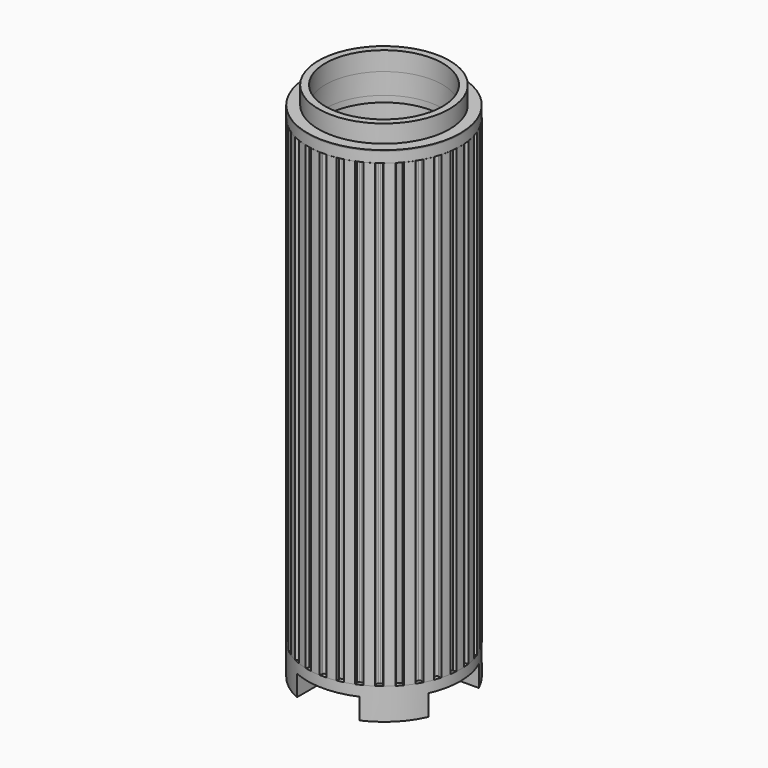
from build123d import *

# Parameters (mm, degrees)
CYLINDER001_R          = 36.5
CYLINDER001_DEPTH      = 400
CYLINDER002_R          = 100
CYLINDER002_DEPTH      = 400
CYLINDER_R             = 32
CYLINDER_DEPTH         = 240
PAD_DEPTH              = 220
BOX002_W               = 100
BOX002_H               = 30
BOX002_DEPTH           = 10
BOX003_W               = 100
BOX003_H               = 30
BOX003_DEPTH           = 10
BOX003_PLACEMENT_ANGLE = 90
CYLINDER006_R          = 19
CYLINDER006_DEPTH      = 58
CYLINDER005_R          = 13.5
CYLINDER005_DEPTH      = 90
CYLINDER007_R          = 22
CYLINDER007_DEPTH      = 60
CYLINDER003_R          = 36.5
CYLINDER003_DEPTH      = 15
CYLINDER004_R          = 31.3
CYLINDER004_DEPTH      = 22.5
CHAMFER_SIZE           = 3
CYLINDER010_R          = 28
CYLINDER010_DEPTH      = 55
CYLINDER008_R          = 36.5
CYLINDER008_DEPTH      = 5
CYLINDER009_R          = 31.3
CYLINDER009_DEPTH      = 22
CYLINDER013_R          = 28
CYLINDER013_DEPTH      = 55
CYLINDER011_R          = 36.5
CYLINDER011_DEPTH      = 5
CYLINDER012_R          = 31.3
CYLINDER012_DEPTH      = 10


with BuildPart() as cylinder001:
    # Cylinder001 → Cylinder001 (new body)
    with BuildSketch(Plane.XY):
        Circle(CYLINDER001_R)
    extrude(amount=CYLINDER001_DEPTH)


with BuildPart() as cut001:
    # Cylinder002 → Cylinder002 (new body)
    with BuildSketch(Plane.XY):
        Circle(CYLINDER002_R)
    extrude(amount=CYLINDER002_DEPTH)

    # Cut001: cut Cylinder001
    add(cylinder001.part, mode=Mode.SUBTRACT)


with BuildPart() as cylinder:
    # Cylinder → Cylinder (new body)
    with BuildSketch(Plane.XY.offset(-10)):
        Circle(CYLINDER_R)
    extrude(amount=CYLINDER_DEPTH)


with BuildPart() as shade:
    # InvoluteGear → Pad (new body)
    with BuildSketch(Plane.XY):
        with BuildLine():
            Line((34.920851, -2.352474), (35.210847, -2.370096))
            add(Edge.make_bspline(
                [(35.210847, -2.370096), (35.34891, -2.371906), (35.765082, -2.362435), (36.457725, -2.219265)],
                knots=[0, 0, 0, 0, 1, 1, 1, 1], degree=3))
            add(Edge.make_bspline(
                [(36.457725, -2.219265), (37.288232, -2.045697), (38.490143, -1.681478), (39.991928, -0.920792)],
                knots=[0, 0, 0, 0, 1, 1, 1, 1], degree=3))
            ThreePointArc((39.991928, -0.920792), (40.002527, 0), (39.991928, 0.920792))
            add(Edge.make_bspline(
                [(39.991928, 0.920792), (38.490143, 1.681478), (37.288232, 2.045697), (36.457725, 2.219265)],
                knots=[0, 0, 0, 0, 1, 1, 1, 1], degree=3))
            add(Edge.make_bspline(
                [(36.457725, 2.219265), (35.765082, 2.362435), (35.34891, 2.371906), (35.210847, 2.370096)],
                knots=[0, 0, 0, 0, 1, 1, 1, 1], degree=3))
            Line((35.210847, 2.370096), (34.920851, 2.352474))
            ThreePointArc((34.920851, 2.352474), (34.429753, 2.671588), (34.223866, 3.219878))
            ThreePointArc((34.223866, 3.219878), (34.18669, 3.593166), (34.145443, 3.966026))
            ThreePointArc((34.145443, 3.966026), (34.232835, 4.545141), (34.646854, 4.959386))
            Line((34.646854, 4.959386), (34.934177, 5.002443))
            add(Edge.make_bspline(
                [(34.934177, 5.002443), (35.069599, 5.029378), (35.474707, 5.125169), (36.122448, 5.409219)],
                knots=[0, 0, 0, 0, 1, 1, 1, 1], degree=3))
            add(Edge.make_bspline(
                [(36.122448, 5.409219), (36.898719, 5.751666), (37.99864, 6.357817), (39.309452, 7.414119)],
                knots=[0, 0, 0, 0, 1, 1, 1, 1], degree=3))
            ThreePointArc((39.309452, 7.414119), (39.128376, 8.316993), (38.926565, 9.21546))
            add(Edge.make_bspline(
                [(38.926565, 9.21546), (37.299442, 9.647284), (36.048071, 9.753653), (35.199625, 9.750756)],
                knots=[0, 0, 0, 0, 1, 1, 1, 1], degree=3))
            add(Edge.make_bspline(
                [(35.199625, 9.750756), (34.492351, 9.746788), (34.083305, 9.669526), (33.948635, 9.639051)],
                knots=[0, 0, 0, 0, 1, 1, 1, 1], degree=3))
            Line((33.948635, 9.639051), (33.66864, 9.56152))
            ThreePointArc((33.66864, 9.56152), (33.121926, 9.771556), (32.806542, 10.265058))
            ThreePointArc((32.806542, 10.265058), (32.692568, 10.622459), (32.5747, 10.978595))
            ThreePointArc((32.5747, 10.978595), (32.539777, 11.563225), (32.858623, 12.054498))
            Line((32.858623, 12.054498), (33.130715, 12.156352))
            add(Edge.make_bspline(
                [(33.130715, 12.156352), (33.257577, 12.210853), (33.633917, 12.388778), (34.208446, 12.801294)],
                knots=[0, 0, 0, 0, 1, 1, 1, 1], degree=3))
            add(Edge.make_bspline(
                [(34.208446, 12.801294), (34.896555, 13.297653), (35.846414, 14.119245), (36.908964, 15.424997)],
                knots=[0, 0, 0, 0, 1, 1, 1, 1], degree=3))
            ThreePointArc((36.908964, 15.424997), (36.544127, 16.270494), (36.159924, 17.107368))
            add(Edge.make_bspline(
                [(36.159924, 17.107368), (34.478576, 17.191458), (33.232435, 17.035327), (32.403133, 16.856092)],
                knots=[0, 0, 0, 0, 1, 1, 1, 1], degree=3))
            add(Edge.make_bspline(
                [(32.403133, 16.856092), (31.71214, 16.705161), (31.328095, 16.544541), (31.202705, 16.486732)],
                knots=[0, 0, 0, 0, 1, 1, 1, 1], degree=3))
            Line((31.202705, 16.486732), (30.944948, 16.352682))
            ThreePointArc((30.944948, 16.352682), (30.366512, 16.444459), (29.955415, 16.861605))
            ThreePointArc((29.955415, 16.861605), (29.769623, 17.1875), (29.580286, 17.511348))
            ThreePointArc((29.580286, 17.511348), (29.424575, 18.075941), (29.634312, 18.62277))
            Line((29.634312, 18.62277), (29.879281, 18.778969))
            add(Edge.make_bspline(
                [(29.879281, 18.778969), (29.99204, 18.858656), (30.323163, 19.110938), (30.79937, 19.63389)],
                knots=[0, 0, 0, 0, 1, 1, 1, 1], degree=3))
            add(Edge.make_bspline(
                [(30.79937, 19.63389), (31.369244, 20.26247), (32.127527, 21.263594), (32.895377, 22.761729)],
                knots=[0, 0, 0, 0, 1, 1, 1, 1], degree=3))
            ThreePointArc((32.895377, 22.761729), (32.362724, 23.512896), (31.812921, 24.251602))
            add(Edge.make_bspline(
                [(31.812921, 24.251602), (30.150831, 23.984282), (28.964383, 23.572476), (28.190468, 23.224736)],
                knots=[0, 0, 0, 0, 1, 1, 1, 1], degree=3))
            add(Edge.make_bspline(
                [(28.190468, 23.224736), (27.545955, 22.933438), (27.203698, 22.69648), (27.093067, 22.613865)],
                knots=[0, 0, 0, 0, 1, 1, 1, 1], degree=3))
            Line((27.093067, 22.613865), (26.868813, 22.429153))
            ThreePointArc((26.868813, 22.429153), (26.283935, 22.398661), (25.795092, 22.72122))
            ThreePointArc((25.795092, 22.72122), (25.545603, 23.001365), (25.293072, 23.27877))
            ThreePointArc((25.293072, 23.27877), (25.023378, 23.798651), (25.11484, 24.377138))
            Line((25.11484, 24.377138), (25.32198, 24.580855))
            add(Edge.make_bspline(
                [(25.32198, 24.580855), (25.415707, 24.682245), (25.687142, 24.997858), (26.044215, 25.608392)],
                knots=[0, 0, 0, 0, 1, 1, 1, 1], degree=3))
            add(Edge.make_bspline(
                [(26.044215, 25.608392), (26.470946, 26.341719), (27.004514, 27.478622), (27.444105, 29.103664)],
                knots=[0, 0, 0, 0, 1, 1, 1, 1], degree=3))
            ThreePointArc((27.444105, 29.103664), (26.766915, 29.727671), (26.075541, 30.335924))
            add(Edge.make_bspline(
                [(26.075541, 30.335924), (24.505351, 29.728879), (23.430449, 29.079395), (22.745745, 28.578348)],
                knots=[0, 0, 0, 0, 1, 1, 1, 1], degree=3))
            add(Edge.make_bspline(
                [(22.745745, 28.578348), (22.17588, 28.159413), (21.890368, 27.856474), (21.799331, 27.752663)],
                knots=[0, 0, 0, 0, 1, 1, 1, 1], degree=3))
            Line((21.799331, 27.752663), (21.618381, 27.525363))
            ThreePointArc((21.618381, 27.525363), (21.052625, 27.373934), (20.507401, 27.587808))
            ThreePointArc((20.507401, 27.587808), (20.205118, 27.809959), (19.900429, 28.028798))
            ThreePointArc((19.900429, 28.028798), (19.52854, 28.481247), (19.497728, 29.066107))
            Line((19.497728, 29.066107), (19.657987, 29.30844))
            add(Edge.make_bspline(
                [(19.657987, 29.30844), (19.728586, 29.427101), (19.928469, 29.792252), (20.150802, 30.463684)],
                knots=[0, 0, 0, 0, 1, 1, 1, 1], degree=3))
            add(Edge.make_bspline(
                [(20.150802, 30.463684), (20.415742, 31.269708), (20.701274, 32.492702), (20.793393, 34.173629)],
                knots=[0, 0, 0, 0, 1, 1, 1, 1], degree=3))
            ThreePointArc((20.793393, 34.173629), (20.001264, 34.643205), (19.198535, 35.094421))
            add(Edge.make_bspline(
                [(19.198535, 35.094421), (17.788869, 34.17418), (16.872491, 33.315405), (16.306923, 32.682949)],
                knots=[0, 0, 0, 0, 1, 1, 1, 1], degree=3))
            add(Edge.make_bspline(
                [(16.306923, 32.682949), (15.836613, 32.154687), (15.620324, 31.799007), (15.55286, 31.678536)],
                knots=[0, 0, 0, 0, 1, 1, 1, 1], degree=3))
            Line((15.55286, 31.678536), (15.423123, 31.418582))
            ThreePointArc((15.423123, 31.418582), (14.901213, 31.152835), (14.323437, 31.248677))
            ThreePointArc((14.323437, 31.248677), (13.981572, 31.403125), (13.638042, 31.553834))
            ThreePointArc((13.638042, 31.553834), (13.18021, 31.919075), (13.028473, 32.484749))
            Line((13.028473, 32.484749), (13.134845, 32.755106))
            add(Edge.make_bspline(
                [(13.134845, 32.755106), (13.17923, 32.885852), (13.298827, 33.284582), (13.376703, 33.987567)],
                knots=[0, 0, 0, 0, 1, 1, 1, 1], degree=3))
            add(Edge.make_bspline(
                [(13.376703, 33.987567), (13.468271, 34.831061), (13.493289, 36.086696), (13.23391, 37.750043)],
                knots=[0, 0, 0, 0, 1, 1, 1, 1], degree=3))
            ThreePointArc((13.23391, 37.750043), (12.361461, 38.044664), (11.48246, 38.319124))
            add(Edge.make_bspline(
                [(11.48246, 38.319124), (10.294928, 37.125906), (9.577124, 36.095371), (9.155411, 35.359148)],
                knots=[0, 0, 0, 0, 1, 1, 1, 1], degree=3))
            add(Edge.make_bspline(
                [(9.155411, 35.359148), (8.805209, 34.744647), (8.667598, 34.351771), (8.626655, 34.219906)],
                knots=[0, 0, 0, 0, 1, 1, 1, 1], degree=3))
            Line((8.626655, 34.219906), (8.553801, 33.938658))
            ThreePointArc((8.553801, 33.938658), (8.098547, 33.570207), (7.51347, 33.543828))
            ThreePointArc((7.51347, 33.543828), (7.146964, 33.623824), (6.779607, 33.699815))
            ThreePointArc((6.779607, 33.699815), (6.255842, 33.961886), (5.98981, 34.483651))
            Line((5.98981, 34.483651), (6.037648, 34.770216))
            add(Edge.make_bspline(
                [(6.037648, 34.770216), (6.053879, 34.907334), (6.087962, 35.322216), (6.017977, 36.02603)],
                knots=[0, 0, 0, 0, 1, 1, 1, 1], degree=3))
            add(Edge.make_bspline(
                [(6.017977, 36.02603), (5.932172, 36.87013), (5.695582, 38.103527), (5.096042, 39.676599)],
                knots=[0, 0, 0, 0, 1, 1, 1, 1], degree=3))
            ThreePointArc((5.096042, 39.676599), (4.181403, 39.783389), (3.264547, 39.869097))
            add(Edge.make_bspline(
                [(3.264547, 39.869097), (2.351049, 38.455052), (1.863191, 37.297797), (1.603763, 36.489982)],
                knots=[0, 0, 0, 0, 1, 1, 1, 1], degree=3))
            add(Edge.make_bspline(
                [(1.603763, 36.489982), (1.388976, 35.816099), (1.336055, 35.403197), (1.323423, 35.265701)],
                knots=[0, 0, 0, 0, 1, 1, 1, 1], degree=3))
            Line((1.323423, 35.265701), (1.310636, 34.975452))
            ThreePointArc((1.310636, 34.975452), (0.941936, 34.5204), (0.375129, 34.372953))
            ThreePointArc((0.375129, 34.372953), (0, 34.375), (-0.375129, 34.372953))
            ThreePointArc((-0.375129, 34.372953), (-0.941936, 34.5204), (-1.310636, 34.975452))
            Line((-1.310636, 34.975452), (-1.323423, 35.265701))
            add(Edge.make_bspline(
                [(-1.323423, 35.265701), (-1.336055, 35.403197), (-1.388976, 35.816099), (-1.603763, 36.489982)],
                knots=[0, 0, 0, 0, 1, 1, 1, 1], degree=3))
            add(Edge.make_bspline(
                [(-1.603763, 36.489982), (-1.863191, 37.297797), (-2.351049, 38.455052), (-3.264547, 39.869097)],
                knots=[0, 0, 0, 0, 1, 1, 1, 1], degree=3))
            ThreePointArc((-3.264547, 39.869097), (-4.181403, 39.783389), (-5.096042, 39.676599))
            add(Edge.make_bspline(
                [(-5.096042, 39.676599), (-5.695582, 38.103527), (-5.932172, 36.87013), (-6.017977, 36.02603)],
                knots=[0, 0, 0, 0, 1, 1, 1, 1], degree=3))
            add(Edge.make_bspline(
                [(-6.017977, 36.02603), (-6.087962, 35.322216), (-6.053879, 34.907334), (-6.037648, 34.770216)],
                knots=[0, 0, 0, 0, 1, 1, 1, 1], degree=3))
            Line((-6.037648, 34.770216), (-5.98981, 34.483651))
            ThreePointArc((-5.98981, 34.483651), (-6.255842, 33.961886), (-6.779607, 33.699815))
            ThreePointArc((-6.779607, 33.699815), (-7.146964, 33.623824), (-7.51347, 33.543828))
            ThreePointArc((-7.51347, 33.543828), (-8.098547, 33.570207), (-8.553801, 33.938658))
            Line((-8.553801, 33.938658), (-8.626655, 34.219906))
            add(Edge.make_bspline(
                [(-8.626655, 34.219906), (-8.667598, 34.351771), (-8.805209, 34.744647), (-9.155411, 35.359148)],
                knots=[0, 0, 0, 0, 1, 1, 1, 1], degree=3))
            add(Edge.make_bspline(
                [(-9.155411, 35.359148), (-9.577124, 36.095371), (-10.294928, 37.125906), (-11.48246, 38.319124)],
                knots=[0, 0, 0, 0, 1, 1, 1, 1], degree=3))
            ThreePointArc((-11.48246, 38.319124), (-12.361461, 38.044664), (-13.23391, 37.750043))
            add(Edge.make_bspline(
                [(-13.23391, 37.750043), (-13.493289, 36.086696), (-13.468271, 34.831061), (-13.376703, 33.987567)],
                knots=[0, 0, 0, 0, 1, 1, 1, 1], degree=3))
            add(Edge.make_bspline(
                [(-13.376703, 33.987567), (-13.298827, 33.284582), (-13.17923, 32.885852), (-13.134845, 32.755106)],
                knots=[0, 0, 0, 0, 1, 1, 1, 1], degree=3))
            Line((-13.134845, 32.755106), (-13.028473, 32.484749))
            ThreePointArc((-13.028473, 32.484749), (-13.18021, 31.919075), (-13.638042, 31.553834))
            ThreePointArc((-13.638042, 31.553834), (-13.981572, 31.403125), (-14.323437, 31.248677))
            ThreePointArc((-14.323437, 31.248677), (-14.901213, 31.152835), (-15.423123, 31.418582))
            Line((-15.423123, 31.418582), (-15.55286, 31.678536))
            add(Edge.make_bspline(
                [(-15.55286, 31.678536), (-15.620324, 31.799007), (-15.836613, 32.154687), (-16.306923, 32.682949)],
                knots=[0, 0, 0, 0, 1, 1, 1, 1], degree=3))
            add(Edge.make_bspline(
                [(-16.306923, 32.682949), (-16.872491, 33.315405), (-17.788869, 34.17418), (-19.198535, 35.094421)],
                knots=[0, 0, 0, 0, 1, 1, 1, 1], degree=3))
            ThreePointArc((-19.198535, 35.094421), (-20.001264, 34.643205), (-20.793393, 34.173629))
            add(Edge.make_bspline(
                [(-20.793393, 34.173629), (-20.701274, 32.492702), (-20.415742, 31.269708), (-20.150802, 30.463684)],
                knots=[0, 0, 0, 0, 1, 1, 1, 1], degree=3))
            add(Edge.make_bspline(
                [(-20.150802, 30.463684), (-19.928469, 29.792252), (-19.728586, 29.427101), (-19.657987, 29.30844)],
                knots=[0, 0, 0, 0, 1, 1, 1, 1], degree=3))
            Line((-19.657987, 29.30844), (-19.497728, 29.066107))
            ThreePointArc((-19.497728, 29.066107), (-19.52854, 28.481247), (-19.900429, 28.028798))
            ThreePointArc((-19.900429, 28.028798), (-20.205118, 27.809959), (-20.507401, 27.587808))
            ThreePointArc((-20.507401, 27.587808), (-21.052625, 27.373934), (-21.618381, 27.525363))
            Line((-21.618381, 27.525363), (-21.799331, 27.752663))
            add(Edge.make_bspline(
                [(-21.799331, 27.752663), (-21.890368, 27.856474), (-22.17588, 28.159413), (-22.745745, 28.578348)],
                knots=[0, 0, 0, 0, 1, 1, 1, 1], degree=3))
            add(Edge.make_bspline(
                [(-22.745745, 28.578348), (-23.430449, 29.079395), (-24.505351, 29.728879), (-26.075541, 30.335924)],
                knots=[0, 0, 0, 0, 1, 1, 1, 1], degree=3))
            ThreePointArc((-26.075541, 30.335924), (-26.766915, 29.727671), (-27.444105, 29.103664))
            add(Edge.make_bspline(
                [(-27.444105, 29.103664), (-27.004514, 27.478622), (-26.470946, 26.341719), (-26.044215, 25.608392)],
                knots=[0, 0, 0, 0, 1, 1, 1, 1], degree=3))
            add(Edge.make_bspline(
                [(-26.044215, 25.608392), (-25.687142, 24.997858), (-25.415707, 24.682245), (-25.32198, 24.580855)],
                knots=[0, 0, 0, 0, 1, 1, 1, 1], degree=3))
            Line((-25.32198, 24.580855), (-25.11484, 24.377138))
            ThreePointArc((-25.11484, 24.377138), (-25.023378, 23.798651), (-25.293072, 23.27877))
            ThreePointArc((-25.293072, 23.27877), (-25.545603, 23.001365), (-25.795092, 22.72122))
            ThreePointArc((-25.795092, 22.72122), (-26.283935, 22.398661), (-26.868813, 22.429153))
            Line((-26.868813, 22.429153), (-27.093067, 22.613865))
            add(Edge.make_bspline(
                [(-27.093067, 22.613865), (-27.203698, 22.69648), (-27.545955, 22.933438), (-28.190468, 23.224736)],
                knots=[0, 0, 0, 0, 1, 1, 1, 1], degree=3))
            add(Edge.make_bspline(
                [(-28.190468, 23.224736), (-28.964383, 23.572476), (-30.150831, 23.984282), (-31.812921, 24.251602)],
                knots=[0, 0, 0, 0, 1, 1, 1, 1], degree=3))
            ThreePointArc((-31.812921, 24.251602), (-32.362724, 23.512896), (-32.895377, 22.761729))
            add(Edge.make_bspline(
                [(-32.895377, 22.761729), (-32.127527, 21.263594), (-31.369244, 20.26247), (-30.79937, 19.63389)],
                knots=[0, 0, 0, 0, 1, 1, 1, 1], degree=3))
            add(Edge.make_bspline(
                [(-30.79937, 19.63389), (-30.323163, 19.110938), (-29.99204, 18.858656), (-29.879281, 18.778969)],
                knots=[0, 0, 0, 0, 1, 1, 1, 1], degree=3))
            Line((-29.879281, 18.778969), (-29.634312, 18.62277))
            ThreePointArc((-29.634312, 18.62277), (-29.424575, 18.075941), (-29.580286, 17.511348))
            ThreePointArc((-29.580286, 17.511348), (-29.769623, 17.1875), (-29.955415, 16.861605))
            ThreePointArc((-29.955415, 16.861605), (-30.366512, 16.444459), (-30.944948, 16.352682))
            Line((-30.944948, 16.352682), (-31.202705, 16.486732))
            add(Edge.make_bspline(
                [(-31.202705, 16.486732), (-31.328095, 16.544541), (-31.71214, 16.705161), (-32.403133, 16.856092)],
                knots=[0, 0, 0, 0, 1, 1, 1, 1], degree=3))
            add(Edge.make_bspline(
                [(-32.403133, 16.856092), (-33.232435, 17.035327), (-34.478576, 17.191458), (-36.159924, 17.107368)],
                knots=[0, 0, 0, 0, 1, 1, 1, 1], degree=3))
            ThreePointArc((-36.159924, 17.107368), (-36.544127, 16.270494), (-36.908964, 15.424997))
            add(Edge.make_bspline(
                [(-36.908964, 15.424997), (-35.846414, 14.119245), (-34.896555, 13.297653), (-34.208446, 12.801294)],
                knots=[0, 0, 0, 0, 1, 1, 1, 1], degree=3))
            add(Edge.make_bspline(
                [(-34.208446, 12.801294), (-33.633917, 12.388778), (-33.257577, 12.210853), (-33.130715, 12.156352)],
                knots=[0, 0, 0, 0, 1, 1, 1, 1], degree=3))
            Line((-33.130715, 12.156352), (-32.858623, 12.054498))
            ThreePointArc((-32.858623, 12.054498), (-32.539777, 11.563225), (-32.5747, 10.978595))
            ThreePointArc((-32.5747, 10.978595), (-32.692568, 10.622459), (-32.806542, 10.265058))
            ThreePointArc((-32.806542, 10.265058), (-33.121926, 9.771556), (-33.66864, 9.56152))
            Line((-33.66864, 9.56152), (-33.948635, 9.639051))
            add(Edge.make_bspline(
                [(-33.948635, 9.639051), (-34.083305, 9.669526), (-34.492351, 9.746788), (-35.199625, 9.750756)],
                knots=[0, 0, 0, 0, 1, 1, 1, 1], degree=3))
            add(Edge.make_bspline(
                [(-35.199625, 9.750756), (-36.048071, 9.753653), (-37.299442, 9.647284), (-38.926565, 9.21546)],
                knots=[0, 0, 0, 0, 1, 1, 1, 1], degree=3))
            ThreePointArc((-38.926565, 9.21546), (-39.128376, 8.316993), (-39.309452, 7.414119))
            add(Edge.make_bspline(
                [(-39.309452, 7.414119), (-37.99864, 6.357817), (-36.898719, 5.751666), (-36.122448, 5.409219)],
                knots=[0, 0, 0, 0, 1, 1, 1, 1], degree=3))
            add(Edge.make_bspline(
                [(-36.122448, 5.409219), (-35.474707, 5.125169), (-35.069599, 5.029378), (-34.934177, 5.002443)],
                knots=[0, 0, 0, 0, 1, 1, 1, 1], degree=3))
            Line((-34.934177, 5.002443), (-34.646854, 4.959386))
            ThreePointArc((-34.646854, 4.959386), (-34.232835, 4.545141), (-34.145443, 3.966026))
            ThreePointArc((-34.145443, 3.966026), (-34.18669, 3.593166), (-34.223866, 3.219878))
            ThreePointArc((-34.223866, 3.219878), (-34.429753, 2.671588), (-34.920851, 2.352474))
            Line((-34.920851, 2.352474), (-35.210847, 2.370096))
            add(Edge.make_bspline(
                [(-35.210847, 2.370096), (-35.34891, 2.371906), (-35.765082, 2.362435), (-36.457725, 2.219265)],
                knots=[0, 0, 0, 0, 1, 1, 1, 1], degree=3))
            add(Edge.make_bspline(
                [(-36.457725, 2.219265), (-37.288232, 2.045697), (-38.490143, 1.681478), (-39.991928, 0.920792)],
                knots=[0, 0, 0, 0, 1, 1, 1, 1], degree=3))
            ThreePointArc((-39.991928, 0.920792), (-40.002527, 0), (-39.991928, -0.920792))
            add(Edge.make_bspline(
                [(-39.991928, -0.920792), (-38.490143, -1.681478), (-37.288232, -2.045697), (-36.457725, -2.219265)],
                knots=[0, 0, 0, 0, 1, 1, 1, 1], degree=3))
            add(Edge.make_bspline(
                [(-36.457725, -2.219265), (-35.765082, -2.362435), (-35.34891, -2.371906), (-35.210847, -2.370096)],
                knots=[0, 0, 0, 0, 1, 1, 1, 1], degree=3))
            Line((-35.210847, -2.370096), (-34.920851, -2.352474))
            ThreePointArc((-34.920851, -2.352474), (-34.429753, -2.671588), (-34.223866, -3.219878))
            ThreePointArc((-34.223866, -3.219878), (-34.18669, -3.593166), (-34.145443, -3.966026))
            ThreePointArc((-34.145443, -3.966026), (-34.232835, -4.545141), (-34.646854, -4.959386))
            Line((-34.646854, -4.959386), (-34.934177, -5.002443))
            add(Edge.make_bspline(
                [(-34.934177, -5.002443), (-35.069599, -5.029378), (-35.474707, -5.125169), (-36.122448, -5.409219)],
                knots=[0, 0, 0, 0, 1, 1, 1, 1], degree=3))
            add(Edge.make_bspline(
                [(-36.122448, -5.409219), (-36.898719, -5.751666), (-37.99864, -6.357817), (-39.309452, -7.414119)],
                knots=[0, 0, 0, 0, 1, 1, 1, 1], degree=3))
            ThreePointArc((-39.309452, -7.414119), (-39.128376, -8.316993), (-38.926565, -9.21546))
            add(Edge.make_bspline(
                [(-38.926565, -9.21546), (-37.299442, -9.647284), (-36.048071, -9.753653), (-35.199625, -9.750756)],
                knots=[0, 0, 0, 0, 1, 1, 1, 1], degree=3))
            add(Edge.make_bspline(
                [(-35.199625, -9.750756), (-34.492351, -9.746788), (-34.083305, -9.669526), (-33.948635, -9.639051)],
                knots=[0, 0, 0, 0, 1, 1, 1, 1], degree=3))
            Line((-33.948635, -9.639051), (-33.66864, -9.56152))
            ThreePointArc((-33.66864, -9.56152), (-33.121926, -9.771556), (-32.806542, -10.265058))
            ThreePointArc((-32.806542, -10.265058), (-32.692568, -10.622459), (-32.5747, -10.978595))
            ThreePointArc((-32.5747, -10.978595), (-32.539777, -11.563225), (-32.858623, -12.054498))
            Line((-32.858623, -12.054498), (-33.130715, -12.156352))
            add(Edge.make_bspline(
                [(-33.130715, -12.156352), (-33.257577, -12.210853), (-33.633917, -12.388778), (-34.208446, -12.801294)],
                knots=[0, 0, 0, 0, 1, 1, 1, 1], degree=3))
            add(Edge.make_bspline(
                [(-34.208446, -12.801294), (-34.896555, -13.297653), (-35.846414, -14.119245), (-36.908964, -15.424997)],
                knots=[0, 0, 0, 0, 1, 1, 1, 1], degree=3))
            ThreePointArc((-36.908964, -15.424997), (-36.544127, -16.270494), (-36.159924, -17.107368))
            add(Edge.make_bspline(
                [(-36.159924, -17.107368), (-34.478576, -17.191458), (-33.232435, -17.035327), (-32.403133, -16.856092)],
                knots=[0, 0, 0, 0, 1, 1, 1, 1], degree=3))
            add(Edge.make_bspline(
                [(-32.403133, -16.856092), (-31.71214, -16.705161), (-31.328095, -16.544541), (-31.202705, -16.486732)],
                knots=[0, 0, 0, 0, 1, 1, 1, 1], degree=3))
            Line((-31.202705, -16.486732), (-30.944948, -16.352682))
            ThreePointArc((-30.944948, -16.352682), (-30.366512, -16.444459), (-29.955415, -16.861605))
            ThreePointArc((-29.955415, -16.861605), (-29.769623, -17.1875), (-29.580286, -17.511348))
            ThreePointArc((-29.580286, -17.511348), (-29.424575, -18.075941), (-29.634312, -18.62277))
            Line((-29.634312, -18.62277), (-29.879281, -18.778969))
            add(Edge.make_bspline(
                [(-29.879281, -18.778969), (-29.99204, -18.858656), (-30.323163, -19.110938), (-30.79937, -19.63389)],
                knots=[0, 0, 0, 0, 1, 1, 1, 1], degree=3))
            add(Edge.make_bspline(
                [(-30.79937, -19.63389), (-31.369244, -20.26247), (-32.127527, -21.263594), (-32.895377, -22.761729)],
                knots=[0, 0, 0, 0, 1, 1, 1, 1], degree=3))
            ThreePointArc((-32.895377, -22.761729), (-32.362724, -23.512896), (-31.812921, -24.251602))
            add(Edge.make_bspline(
                [(-31.812921, -24.251602), (-30.150831, -23.984282), (-28.964383, -23.572476), (-28.190468, -23.224736)],
                knots=[0, 0, 0, 0, 1, 1, 1, 1], degree=3))
            add(Edge.make_bspline(
                [(-28.190468, -23.224736), (-27.545955, -22.933438), (-27.203698, -22.69648), (-27.093067, -22.613865)],
                knots=[0, 0, 0, 0, 1, 1, 1, 1], degree=3))
            Line((-27.093067, -22.613865), (-26.868813, -22.429153))
            ThreePointArc((-26.868813, -22.429153), (-26.283935, -22.398661), (-25.795092, -22.72122))
            ThreePointArc((-25.795092, -22.72122), (-25.545603, -23.001365), (-25.293072, -23.27877))
            ThreePointArc((-25.293072, -23.27877), (-25.023378, -23.798651), (-25.11484, -24.377138))
            Line((-25.11484, -24.377138), (-25.32198, -24.580855))
            add(Edge.make_bspline(
                [(-25.32198, -24.580855), (-25.415707, -24.682245), (-25.687142, -24.997858), (-26.044215, -25.608392)],
                knots=[0, 0, 0, 0, 1, 1, 1, 1], degree=3))
            add(Edge.make_bspline(
                [(-26.044215, -25.608392), (-26.470946, -26.341719), (-27.004514, -27.478622), (-27.444105, -29.103664)],
                knots=[0, 0, 0, 0, 1, 1, 1, 1], degree=3))
            ThreePointArc((-27.444105, -29.103664), (-26.766915, -29.727671), (-26.075541, -30.335924))
            add(Edge.make_bspline(
                [(-26.075541, -30.335924), (-24.505351, -29.728879), (-23.430449, -29.079395), (-22.745745, -28.578348)],
                knots=[0, 0, 0, 0, 1, 1, 1, 1], degree=3))
            add(Edge.make_bspline(
                [(-22.745745, -28.578348), (-22.17588, -28.159413), (-21.890368, -27.856474), (-21.799331, -27.752663)],
                knots=[0, 0, 0, 0, 1, 1, 1, 1], degree=3))
            Line((-21.799331, -27.752663), (-21.618381, -27.525363))
            ThreePointArc((-21.618381, -27.525363), (-21.052625, -27.373934), (-20.507401, -27.587808))
            ThreePointArc((-20.507401, -27.587808), (-20.205118, -27.809959), (-19.900429, -28.028798))
            ThreePointArc((-19.900429, -28.028798), (-19.52854, -28.481247), (-19.497728, -29.066107))
            Line((-19.497728, -29.066107), (-19.657987, -29.30844))
            add(Edge.make_bspline(
                [(-19.657987, -29.30844), (-19.728586, -29.427101), (-19.928469, -29.792252), (-20.150802, -30.463684)],
                knots=[0, 0, 0, 0, 1, 1, 1, 1], degree=3))
            add(Edge.make_bspline(
                [(-20.150802, -30.463684), (-20.415742, -31.269708), (-20.701274, -32.492702), (-20.793393, -34.173629)],
                knots=[0, 0, 0, 0, 1, 1, 1, 1], degree=3))
            ThreePointArc((-20.793393, -34.173629), (-20.001264, -34.643205), (-19.198535, -35.094421))
            add(Edge.make_bspline(
                [(-19.198535, -35.094421), (-17.788869, -34.17418), (-16.872491, -33.315405), (-16.306923, -32.682949)],
                knots=[0, 0, 0, 0, 1, 1, 1, 1], degree=3))
            add(Edge.make_bspline(
                [(-16.306923, -32.682949), (-15.836613, -32.154687), (-15.620324, -31.799007), (-15.55286, -31.678536)],
                knots=[0, 0, 0, 0, 1, 1, 1, 1], degree=3))
            Line((-15.55286, -31.678536), (-15.423123, -31.418582))
            ThreePointArc((-15.423123, -31.418582), (-14.901213, -31.152835), (-14.323437, -31.248677))
            ThreePointArc((-14.323437, -31.248677), (-13.981572, -31.403125), (-13.638042, -31.553834))
            ThreePointArc((-13.638042, -31.553834), (-13.18021, -31.919075), (-13.028473, -32.484749))
            Line((-13.028473, -32.484749), (-13.134845, -32.755106))
            add(Edge.make_bspline(
                [(-13.134845, -32.755106), (-13.17923, -32.885852), (-13.298827, -33.284582), (-13.376703, -33.987567)],
                knots=[0, 0, 0, 0, 1, 1, 1, 1], degree=3))
            add(Edge.make_bspline(
                [(-13.376703, -33.987567), (-13.468271, -34.831061), (-13.493289, -36.086696), (-13.23391, -37.750043)],
                knots=[0, 0, 0, 0, 1, 1, 1, 1], degree=3))
            ThreePointArc((-13.23391, -37.750043), (-12.361461, -38.044664), (-11.48246, -38.319124))
            add(Edge.make_bspline(
                [(-11.48246, -38.319124), (-10.294928, -37.125906), (-9.577124, -36.095371), (-9.155411, -35.359148)],
                knots=[0, 0, 0, 0, 1, 1, 1, 1], degree=3))
            add(Edge.make_bspline(
                [(-9.155411, -35.359148), (-8.805209, -34.744647), (-8.667598, -34.351771), (-8.626655, -34.219906)],
                knots=[0, 0, 0, 0, 1, 1, 1, 1], degree=3))
            Line((-8.626655, -34.219906), (-8.553801, -33.938658))
            ThreePointArc((-8.553801, -33.938658), (-8.098547, -33.570207), (-7.51347, -33.543828))
            ThreePointArc((-7.51347, -33.543828), (-7.146964, -33.623824), (-6.779607, -33.699815))
            ThreePointArc((-6.779607, -33.699815), (-6.255842, -33.961886), (-5.98981, -34.483651))
            Line((-5.98981, -34.483651), (-6.037648, -34.770216))
            add(Edge.make_bspline(
                [(-6.037648, -34.770216), (-6.053879, -34.907334), (-6.087962, -35.322216), (-6.017977, -36.02603)],
                knots=[0, 0, 0, 0, 1, 1, 1, 1], degree=3))
            add(Edge.make_bspline(
                [(-6.017977, -36.02603), (-5.932172, -36.87013), (-5.695582, -38.103527), (-5.096042, -39.676599)],
                knots=[0, 0, 0, 0, 1, 1, 1, 1], degree=3))
            ThreePointArc((-5.096042, -39.676599), (-4.181403, -39.783389), (-3.264547, -39.869097))
            add(Edge.make_bspline(
                [(-3.264547, -39.869097), (-2.351049, -38.455052), (-1.863191, -37.297797), (-1.603763, -36.489982)],
                knots=[0, 0, 0, 0, 1, 1, 1, 1], degree=3))
            add(Edge.make_bspline(
                [(-1.603763, -36.489982), (-1.388976, -35.816099), (-1.336055, -35.403197), (-1.323423, -35.265701)],
                knots=[0, 0, 0, 0, 1, 1, 1, 1], degree=3))
            Line((-1.323423, -35.265701), (-1.310636, -34.975452))
            ThreePointArc((-1.310636, -34.975452), (-0.941936, -34.5204), (-0.375129, -34.372953))
            ThreePointArc((-0.375129, -34.372953), (0, -34.375), (0.375129, -34.372953))
            ThreePointArc((0.375129, -34.372953), (0.941936, -34.5204), (1.310636, -34.975452))
            Line((1.310636, -34.975452), (1.323423, -35.265701))
            add(Edge.make_bspline(
                [(1.323423, -35.265701), (1.336055, -35.403197), (1.388976, -35.816099), (1.603763, -36.489982)],
                knots=[0, 0, 0, 0, 1, 1, 1, 1], degree=3))
            add(Edge.make_bspline(
                [(1.603763, -36.489982), (1.863191, -37.297797), (2.351049, -38.455052), (3.264547, -39.869097)],
                knots=[0, 0, 0, 0, 1, 1, 1, 1], degree=3))
            ThreePointArc((3.264547, -39.869097), (4.181403, -39.783389), (5.096042, -39.676599))
            add(Edge.make_bspline(
                [(5.096042, -39.676599), (5.695582, -38.103527), (5.932172, -36.87013), (6.017977, -36.02603)],
                knots=[0, 0, 0, 0, 1, 1, 1, 1], degree=3))
            add(Edge.make_bspline(
                [(6.017977, -36.02603), (6.087962, -35.322216), (6.053879, -34.907334), (6.037648, -34.770216)],
                knots=[0, 0, 0, 0, 1, 1, 1, 1], degree=3))
            Line((6.037648, -34.770216), (5.98981, -34.483651))
            ThreePointArc((5.98981, -34.483651), (6.255842, -33.961886), (6.779607, -33.699815))
            ThreePointArc((6.779607, -33.699815), (7.146964, -33.623824), (7.51347, -33.543828))
            ThreePointArc((7.51347, -33.543828), (8.098547, -33.570207), (8.553801, -33.938658))
            Line((8.553801, -33.938658), (8.626655, -34.219906))
            add(Edge.make_bspline(
                [(8.626655, -34.219906), (8.667598, -34.351771), (8.805209, -34.744647), (9.155411, -35.359148)],
                knots=[0, 0, 0, 0, 1, 1, 1, 1], degree=3))
            add(Edge.make_bspline(
                [(9.155411, -35.359148), (9.577124, -36.095371), (10.294928, -37.125906), (11.48246, -38.319124)],
                knots=[0, 0, 0, 0, 1, 1, 1, 1], degree=3))
            ThreePointArc((11.48246, -38.319124), (12.361461, -38.044664), (13.23391, -37.750043))
            add(Edge.make_bspline(
                [(13.23391, -37.750043), (13.493289, -36.086696), (13.468271, -34.831061), (13.376703, -33.987567)],
                knots=[0, 0, 0, 0, 1, 1, 1, 1], degree=3))
            add(Edge.make_bspline(
                [(13.376703, -33.987567), (13.298827, -33.284582), (13.17923, -32.885852), (13.134845, -32.755106)],
                knots=[0, 0, 0, 0, 1, 1, 1, 1], degree=3))
            Line((13.134845, -32.755106), (13.028473, -32.484749))
            ThreePointArc((13.028473, -32.484749), (13.18021, -31.919075), (13.638042, -31.553834))
            ThreePointArc((13.638042, -31.553834), (13.981572, -31.403125), (14.323437, -31.248677))
            ThreePointArc((14.323437, -31.248677), (14.901213, -31.152835), (15.423123, -31.418582))
            Line((15.423123, -31.418582), (15.55286, -31.678536))
            add(Edge.make_bspline(
                [(15.55286, -31.678536), (15.620324, -31.799007), (15.836613, -32.154687), (16.306923, -32.682949)],
                knots=[0, 0, 0, 0, 1, 1, 1, 1], degree=3))
            add(Edge.make_bspline(
                [(16.306923, -32.682949), (16.872491, -33.315405), (17.788869, -34.17418), (19.198535, -35.094421)],
                knots=[0, 0, 0, 0, 1, 1, 1, 1], degree=3))
            ThreePointArc((19.198535, -35.094421), (20.001264, -34.643205), (20.793393, -34.173629))
            add(Edge.make_bspline(
                [(20.793393, -34.173629), (20.701274, -32.492702), (20.415742, -31.269708), (20.150802, -30.463684)],
                knots=[0, 0, 0, 0, 1, 1, 1, 1], degree=3))
            add(Edge.make_bspline(
                [(20.150802, -30.463684), (19.928469, -29.792252), (19.728586, -29.427101), (19.657987, -29.30844)],
                knots=[0, 0, 0, 0, 1, 1, 1, 1], degree=3))
            Line((19.657987, -29.30844), (19.497728, -29.066107))
            ThreePointArc((19.497728, -29.066107), (19.52854, -28.481247), (19.900429, -28.028798))
            ThreePointArc((19.900429, -28.028798), (20.205118, -27.809959), (20.507401, -27.587808))
            ThreePointArc((20.507401, -27.587808), (21.052625, -27.373934), (21.618381, -27.525363))
            Line((21.618381, -27.525363), (21.799331, -27.752663))
            add(Edge.make_bspline(
                [(21.799331, -27.752663), (21.890368, -27.856474), (22.17588, -28.159413), (22.745745, -28.578348)],
                knots=[0, 0, 0, 0, 1, 1, 1, 1], degree=3))
            add(Edge.make_bspline(
                [(22.745745, -28.578348), (23.430449, -29.079395), (24.505351, -29.728879), (26.075541, -30.335924)],
                knots=[0, 0, 0, 0, 1, 1, 1, 1], degree=3))
            ThreePointArc((26.075541, -30.335924), (26.766915, -29.727671), (27.444105, -29.103664))
            add(Edge.make_bspline(
                [(27.444105, -29.103664), (27.004514, -27.478622), (26.470946, -26.341719), (26.044215, -25.608392)],
                knots=[0, 0, 0, 0, 1, 1, 1, 1], degree=3))
            add(Edge.make_bspline(
                [(26.044215, -25.608392), (25.687142, -24.997858), (25.415707, -24.682245), (25.32198, -24.580855)],
                knots=[0, 0, 0, 0, 1, 1, 1, 1], degree=3))
            Line((25.32198, -24.580855), (25.11484, -24.377138))
            ThreePointArc((25.11484, -24.377138), (25.023378, -23.798651), (25.293072, -23.27877))
            ThreePointArc((25.293072, -23.27877), (25.545603, -23.001365), (25.795092, -22.72122))
            ThreePointArc((25.795092, -22.72122), (26.283935, -22.398661), (26.868813, -22.429153))
            Line((26.868813, -22.429153), (27.093067, -22.613865))
            add(Edge.make_bspline(
                [(27.093067, -22.613865), (27.203698, -22.69648), (27.545955, -22.933438), (28.190468, -23.224736)],
                knots=[0, 0, 0, 0, 1, 1, 1, 1], degree=3))
            add(Edge.make_bspline(
                [(28.190468, -23.224736), (28.964383, -23.572476), (30.150831, -23.984282), (31.812921, -24.251602)],
                knots=[0, 0, 0, 0, 1, 1, 1, 1], degree=3))
            ThreePointArc((31.812921, -24.251602), (32.362724, -23.512896), (32.895377, -22.761729))
            add(Edge.make_bspline(
                [(32.895377, -22.761729), (32.127527, -21.263594), (31.369244, -20.26247), (30.79937, -19.63389)],
                knots=[0, 0, 0, 0, 1, 1, 1, 1], degree=3))
            add(Edge.make_bspline(
                [(30.79937, -19.63389), (30.323163, -19.110938), (29.99204, -18.858656), (29.879281, -18.778969)],
                knots=[0, 0, 0, 0, 1, 1, 1, 1], degree=3))
            Line((29.879281, -18.778969), (29.634312, -18.62277))
            ThreePointArc((29.634312, -18.62277), (29.424575, -18.075941), (29.580286, -17.511348))
            ThreePointArc((29.580286, -17.511348), (29.769623, -17.1875), (29.955415, -16.861605))
            ThreePointArc((29.955415, -16.861605), (30.366512, -16.444459), (30.944948, -16.352682))
            Line((30.944948, -16.352682), (31.202705, -16.486732))
            add(Edge.make_bspline(
                [(31.202705, -16.486732), (31.328095, -16.544541), (31.71214, -16.705161), (32.403133, -16.856092)],
                knots=[0, 0, 0, 0, 1, 1, 1, 1], degree=3))
            add(Edge.make_bspline(
                [(32.403133, -16.856092), (33.232435, -17.035327), (34.478576, -17.191458), (36.159924, -17.107368)],
                knots=[0, 0, 0, 0, 1, 1, 1, 1], degree=3))
            ThreePointArc((36.159924, -17.107368), (36.544127, -16.270494), (36.908964, -15.424997))
            add(Edge.make_bspline(
                [(36.908964, -15.424997), (35.846414, -14.119245), (34.896555, -13.297653), (34.208446, -12.801294)],
                knots=[0, 0, 0, 0, 1, 1, 1, 1], degree=3))
            add(Edge.make_bspline(
                [(34.208446, -12.801294), (33.633917, -12.388778), (33.257577, -12.210853), (33.130715, -12.156352)],
                knots=[0, 0, 0, 0, 1, 1, 1, 1], degree=3))
            Line((33.130715, -12.156352), (32.858623, -12.054498))
            ThreePointArc((32.858623, -12.054498), (32.539777, -11.563225), (32.5747, -10.978595))
            ThreePointArc((32.5747, -10.978595), (32.692568, -10.622459), (32.806542, -10.265058))
            ThreePointArc((32.806542, -10.265058), (33.121926, -9.771556), (33.66864, -9.56152))
            Line((33.66864, -9.56152), (33.948635, -9.639051))
            add(Edge.make_bspline(
                [(33.948635, -9.639051), (34.083305, -9.669526), (34.492351, -9.746788), (35.199625, -9.750756)],
                knots=[0, 0, 0, 0, 1, 1, 1, 1], degree=3))
            add(Edge.make_bspline(
                [(35.199625, -9.750756), (36.048071, -9.753653), (37.299442, -9.647284), (38.926565, -9.21546)],
                knots=[0, 0, 0, 0, 1, 1, 1, 1], degree=3))
            ThreePointArc((38.926565, -9.21546), (39.128376, -8.316993), (39.309452, -7.414119))
            add(Edge.make_bspline(
                [(39.309452, -7.414119), (37.99864, -6.357817), (36.898719, -5.751666), (36.122448, -5.409219)],
                knots=[0, 0, 0, 0, 1, 1, 1, 1], degree=3))
            add(Edge.make_bspline(
                [(36.122448, -5.409219), (35.474707, -5.125169), (35.069599, -5.029378), (34.934177, -5.002443)],
                knots=[0, 0, 0, 0, 1, 1, 1, 1], degree=3))
            Line((34.934177, -5.002443), (34.646854, -4.959386))
            ThreePointArc((34.646854, -4.959386), (34.232835, -4.545141), (34.145443, -3.966026))
            ThreePointArc((34.145443, -3.966026), (34.18669, -3.593166), (34.223866, -3.219878))
            ThreePointArc((34.223866, -3.219878), (34.429753, -2.671588), (34.920851, -2.352474))
        make_face()
    extrude(amount=PAD_DEPTH)

    # Cut: cut Cylinder
    add(cylinder.part, mode=Mode.SUBTRACT)

    # Cut002: cut Cut001
    add(cut001.part, mode=Mode.SUBTRACT)


with BuildPart() as shade_1:
    # Cut002 placement: moved
    add(shade.part.moved(Location((0, 0, 15))))


with BuildPart() as cube002:
    # Box002 → Box002 (new body)
    with BuildSketch(Plane(origin=(-50, -15, 0), x_dir=(1, 0, 0), z_dir=(0, 0, 1))):
        with Locations((50, 15)):
            Rectangle(BOX002_W, BOX002_H)
    extrude(amount=BOX002_DEPTH)


with BuildPart() as feet_cutout_fusion001:
    # Box003 → Box003 (new body)
    with BuildSketch(Plane.XY):
        with Locations((50, 15)):
            Rectangle(BOX003_W, BOX003_H)
    extrude(amount=BOX003_DEPTH)


with BuildPart() as feet_cutout_fusion001_1:
    # Box003 placement: moved
    add(feet_cutout_fusion001.part.moved(Location((15, -50, 0))).rotate(Axis((15, -50, 0), (0, 0, 1)), BOX003_PLACEMENT_ANGLE))

    # Fusion004: union Cube002
    add(cube002.part)


with BuildPart() as cylinder006:
    # Cylinder006 → Cylinder006 (new body)
    with BuildSketch(Plane.XY):
        Circle(CYLINDER006_R)
    extrude(amount=CYLINDER006_DEPTH)


with BuildPart() as fixture_mount:
    # Cylinder005 → Cylinder005 (new body)
    with BuildSketch(Plane.XY):
        Circle(CYLINDER005_R)
    extrude(amount=CYLINDER005_DEPTH)

    # Fusion002: union Cylinder006
    add(cylinder006.part)


with BuildPart() as cylinder007:
    # Cylinder007 → Cylinder007 (new body)
    with BuildSketch(Plane.XY):
        Circle(CYLINDER007_R)
    extrude(amount=CYLINDER007_DEPTH)


with BuildPart() as cylinder003:
    # Cylinder003 → Cylinder003 (new body)
    with BuildSketch(Plane.XY):
        Circle(CYLINDER003_R)
    extrude(amount=CYLINDER003_DEPTH)


with BuildPart() as base:
    # Cylinder004 → Cylinder004 (new body)
    with BuildSketch(Plane.XY):
        Circle(CYLINDER004_R)
    extrude(amount=CYLINDER004_DEPTH)

    # Fusion: union Cylinder003
    add(cylinder003.part)

    # Fusion003: union Cylinder007
    add(cylinder007.part)

    # Cut005: cut Fixture Mount
    add(fixture_mount.part, mode=Mode.SUBTRACT)

    # Cut006: cut Feet Cutout Fusion001
    add(feet_cutout_fusion001_1.part, mode=Mode.SUBTRACT)

    # Chamfer
    chamfer_edges = [base.edges().sort_by_distance(p)[0] for p in [
        (-22, 0, 60),
    ]]
    chamfer(chamfer_edges, length=CHAMFER_SIZE)


with BuildPart() as cylinder010:
    # Cylinder010 → Cylinder010 (new body)
    with BuildSketch(Plane.XY.offset(-10)):
        Circle(CYLINDER010_R)
    extrude(amount=CYLINDER010_DEPTH)


with BuildPart() as cylinder008:
    # Cylinder008 → Cylinder008 (new body)
    with BuildSketch(Plane.XY.offset(8.5)):
        Circle(CYLINDER008_R)
    extrude(amount=CYLINDER008_DEPTH)


with BuildPart() as joint:
    # Cylinder009 → Cylinder009 (new body)
    with BuildSketch(Plane.XY):
        Circle(CYLINDER009_R)
    extrude(amount=CYLINDER009_DEPTH)

    # Fusion005: union Cylinder008
    add(cylinder008.part)

    # Cut007: cut Cylinder010
    add(cylinder010.part, mode=Mode.SUBTRACT)


with BuildPart() as joint_1:
    # Cut007 placement: moved
    add(joint.part.moved(Location((0, 0, 227))))


with BuildPart() as cylinder013:
    # Cylinder013 → Cylinder013 (new body)
    with BuildSketch(Plane.XY.offset(-10)):
        Circle(CYLINDER013_R)
    extrude(amount=CYLINDER013_DEPTH)


with BuildPart() as cylinder011:
    # Cylinder011 → Cylinder011 (new body)
    with BuildSketch(Plane.XY.offset(5)):
        Circle(CYLINDER011_R)
    extrude(amount=CYLINDER011_DEPTH)


with BuildPart() as cap:
    # Cylinder012 → Cylinder012 (new body)
    with BuildSketch(Plane.XY):
        Circle(CYLINDER012_R)
    extrude(amount=CYLINDER012_DEPTH)

    # Fusion006: union Cylinder011
    add(cylinder011.part)

    # Cut008: cut Cylinder013
    add(cylinder013.part, mode=Mode.SUBTRACT)


with BuildPart() as cap_1:
    # Cut008 placement: moved
    add(cap.part.moved(Location((0, 0, 230))))


solid = Compound([shade_1.part, base.part, joint_1.part, cap_1.part])
